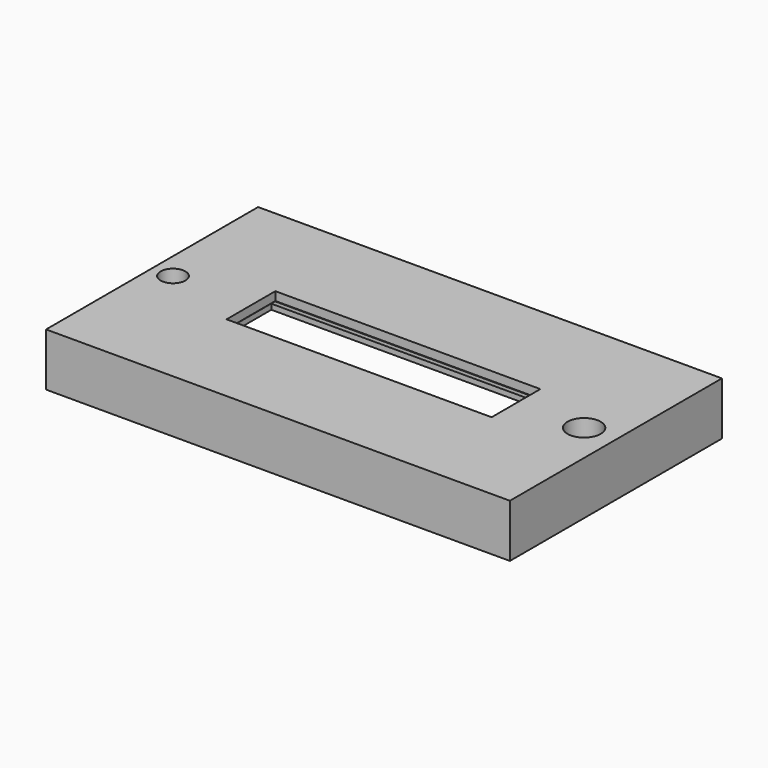
from build123d import *

# Parameters (mm, degrees)
F0_W     = 88.9
F0_H     = 50.8
F1_DEPTH = 10.16
F2_R     = 2.38125
F2_R_2   = 3.175
F3_DEPTH = 25.4
F4_W     = 66.04
F4_H     = 31.75
F5_DEPTH = 6.985
F6_W     = 58.42
F6_H     = 13.8684
F7_DEPTH = 1.27
F8_W     = 50.8
F8_H     = 11.43
F9_DEPTH = 25.4
F10_SIZE = 0.254


with BuildPart() as f1:
    # F0 (on Top) → F1 (new body)
    with BuildSketch(Plane.XY):
        with Locations((44.45, 25.4)):
            Rectangle(F0_W, F0_H)
    extrude(amount=F1_DEPTH)

    # F2 (on face) → F3 (cut)
    with BuildSketch(Plane.XY.offset(10.16)):
        with Locations((4.0132, 25.4)):
            Circle(F2_R)
        with Locations((82.804, 25.4)):
            Circle(F2_R_2)
    extrude(amount=-F3_DEPTH, mode=Mode.SUBTRACT)

    # F4 (on face) → F5 (cut)
    with BuildSketch(Plane(origin=(0, 0, 0), x_dir=(1, 0, 0), z_dir=(0, 0, -1))):
        with Locations((43.18, -25.4)):
            Rectangle(F4_W, F4_H)
    extrude(amount=-F5_DEPTH, mode=Mode.SUBTRACT)

    # F6 (on face) → F7 (cut)
    with BuildSketch(Plane(origin=(0, 0, 6.985), x_dir=(1, 0, 0), z_dir=(0, 0, -1))):
        with Locations((44.45, -25.4)):
            Rectangle(F6_W, F6_H)
    extrude(amount=-F7_DEPTH, mode=Mode.SUBTRACT)

    # F8 (on face) → F9 (cut)
    with BuildSketch(Plane(origin=(0, 0, 8.255), x_dir=(1, 0, 0), z_dir=(0, 0, -1))):
        with Locations((44.45, -25.4)):
            Rectangle(F8_W, F8_H)
    extrude(amount=-F9_DEPTH, mode=Mode.SUBTRACT)

    # F10
    f10_edges = [f1.edges().sort_by_distance(p)[0] for p in [
        (44.45, 31.115, 8.255),
        (69.85, 25.4, 8.255),
        (44.45, 19.685, 10.16),
        (19.05, 25.4, 8.255),
    ]]
    chamfer(f10_edges, length=F10_SIZE)


solid = f1.part
